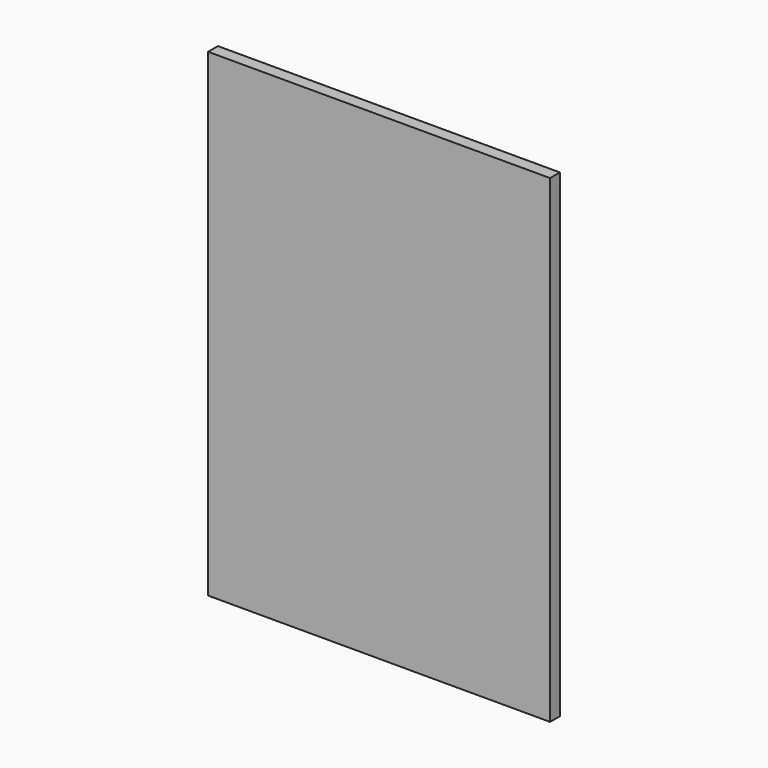
from build123d import *

# Parameters (mm, degrees)
F0_W     = 500
F0_H     = 700
F0_W_2   = 470
F0_H_2   = 670
F1_DEPTH = 15
F2_W     = 500
F2_H     = 700
F3_DEPTH = 3


with BuildPart() as f1:
    # F0 (on Front) → F1 (new body)
    with BuildSketch(Plane.XZ):
        with Locations((3.746569, 20.465286)):
            Rectangle(F0_W, F0_H)
        with Locations((3.746569, 20.465286)):
            Rectangle(F0_W_2, F0_H_2, mode=Mode.SUBTRACT)
    extrude(amount=F1_DEPTH)

    # F2 (on face) → F3 (join)
    with BuildSketch(Plane.XZ.offset(15)):
        with Locations((3.746569, 20.465286)):
            Rectangle(F2_W, F2_H)
    extrude(amount=F3_DEPTH)


solid = f1.part
